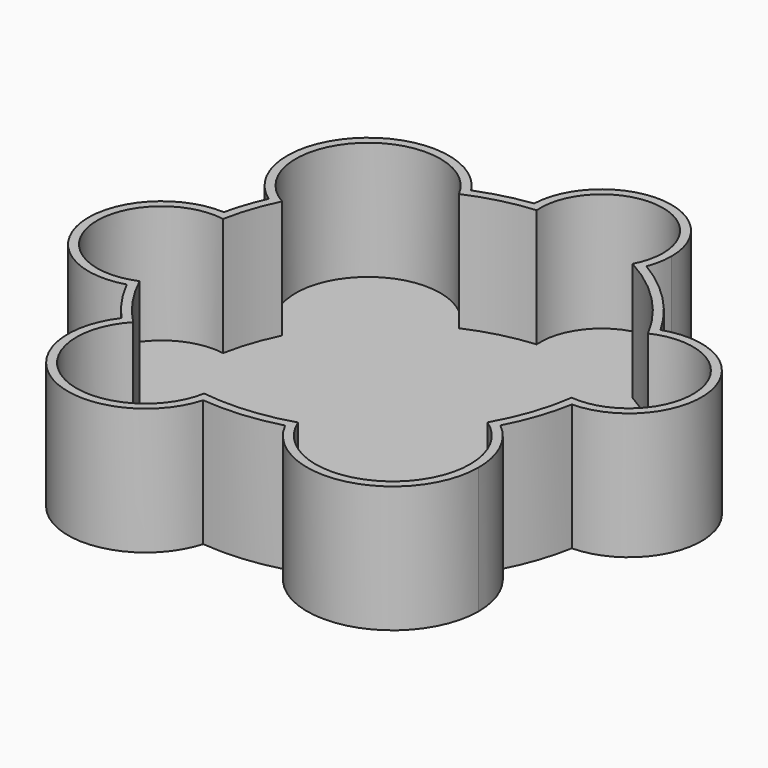
from build123d import *

# Parameters (mm, degrees)
F1_DEPTH = 37.6201
F2_T     = -2.54


with BuildPart() as f1:
    # F0 (on Top) → F1 (new body)
    with BuildSketch(Plane.XY):
        with BuildLine():
            ThreePointArc((16.7091462893, -60.6978161449), (39.4117489765, -49.0931206697), (55.6500673937, -29.4362099047))
            ThreePointArc((55.6500673937, -29.4362099047), (23.4502719471, -29.2107572065), (16.7091462893, -60.6978161449))
        make_face()
        with BuildLine():
            ThreePointArc((62.0042191269, -10.9040022441), (40.3670714522, 7.0042086774), (54.7064706003, 31.1548155016))
            ThreePointArc((54.7064706003, 31.1548155016), (44.935325146, 44.0935030192), (32.183718898, 54.1075659439))
            ThreePointArc((32.183718898, 54.1075659439), (8.6217733932, 41.3273719277), (-7.8647058636, 62.4625236134))
            ThreePointArc((-7.8647058636, 62.4625236134), (-15.7447875498, 60.9550828027), (-23.3691654764, 58.4576988892))
            ThreePointArc((-23.3691654764, 58.4576988892), (-20.5183346703, 52.2285422381), (-19.5415821715, 45.4480125076))
            ThreePointArc((-19.5415821715, 45.4480125076), (-32.511737083, 24.1185300053), (-57.4170529697, 25.820582541))
            ThreePointArc((-57.4170529697, 25.820582541), (-59.6745301999, 20.0591849261), (-61.3555023196, 14.1039990638))
            ThreePointArc((-61.3555023196, 14.1039990638), (-46.7617551504, 7.3703572713), (-40.8076782208, -7.5584188387))
            ThreePointArc((-40.8076782208, -7.5584188387), (-45.0832579318, -20.4896487957), (-56.224579776, -28.3234369999))
            ThreePointArc((-56.224579776, -28.3234369999), (-51.9059842561, -35.62568249), (-46.644810885, -42.2809894868))
            ThreePointArc((-46.644810885, -42.2809894868), (-20.8768390556, -34.3673934602), (-5.1505744217, -56.2602684413))
            ThreePointArc((-5.1505744217, -56.2602684413), (-5.3779967145, -59.4938509677), (-6.0557859623, -62.6637687253))
            ThreePointArc((-6.0557859623, -62.6637687253), (5.4166192363, -62.7222503624), (16.7091462893, -60.6978161449))
            ThreePointArc((16.7091462893, -60.6978161449), (23.4502719471, -29.2107572065), (55.6500673937, -29.4362099047))
            ThreePointArc((55.6500673937, -29.4362099047), (59.5524429756, -20.4187901237), (62.0042191269, -10.9040022441))
        make_face()
        with BuildLine():
            ThreePointArc((62.0042191269, -10.9040022441), (62.7173804314, -5.4727183649), (62.955702319, 0))
            ThreePointArc((62.955702319, 0), (60.8584617474, 16.1142200625), (54.7064706003, 31.1548155016))
            ThreePointArc((54.7064706003, 31.1548155016), (40.3670714522, 7.0042086774), (62.0042191269, -10.9040022441))
        make_face()
        with BuildLine():
            ThreePointArc((-46.644810885, -42.2809894868), (-28.2524804112, -56.2602684413), (-6.0557859623, -62.6637687253))
            ThreePointArc((-6.0557859623, -62.6637687253), (-5.3779967145, -59.4938509677), (-5.1505744217, -56.2602684413))
            ThreePointArc((-5.1505744217, -56.2602684413), (-20.8768390556, -34.3673934602), (-46.644810885, -42.2809894868))
        make_face()
        with BuildLine():
            ThreePointArc((-57.4170529697, 25.820582541), (-43.5648782115, 45.4480125076), (-23.3691654764, 58.4576988892))
            ThreePointArc((-23.3691654764, 58.4576988892), (-60.1888205657, 62.7905409631), (-57.4170529697, 25.820582541))
        make_face()
        with BuildLine():
            ThreePointArc((-40.8076782208, -7.5584188387), (-46.7617551504, 7.3703572713), (-61.3555023196, 14.1039990638))
            ThreePointArc((-61.3555023196, 14.1039990638), (-62.5003260722, -7.5584188387), (-56.224579776, -28.3234369999))
            ThreePointArc((-56.224579776, -28.3234369999), (-45.0832579318, -20.4896487957), (-40.8076782208, -7.5584188387))
        make_face()
        with BuildLine():
            ThreePointArc((-56.224579776, -28.3234369999), (-62.5003260722, -7.5584188387), (-61.3555023196, 14.1039990638))
            ThreePointArc((-61.3555023196, 14.1039990638), (-84.0360649195, -10.1628233985), (-56.224579776, -28.3234369999))
        make_face()
        with BuildLine():
            ThreePointArc((-7.8647058636, 62.4625236134), (12.8570964123, 61.6288530343), (32.183718898, 54.1075659439))
            ThreePointArc((32.183718898, 54.1075659439), (33.2396198234, 57.8025185487), (33.5956618448, 61.6288530343))
            ThreePointArc((33.5956618448, 61.6288530343), (13.2740159603, 82.3632272541), (-7.8647058636, 62.4625236134))
        make_face()
        with BuildLine():
            ThreePointArc((-19.5415821715, 45.4480125076), (-20.5183346703, 52.2285422381), (-23.3691654764, 58.4576988892))
            ThreePointArc((-23.3691654764, 58.4576988892), (-43.5648782115, 45.4480125076), (-57.4170529697, 25.820582541))
            ThreePointArc((-57.4170529697, 25.820582541), (-32.511737083, 24.1185300053), (-19.5415821715, 45.4480125076))
        make_face()
        with BuildLine():
            ThreePointArc((64.9083590619, -49.0931206697), (62.477949346, -38.229073249), (55.6500673937, -29.4362099047))
            ThreePointArc((55.6500673937, -29.4362099047), (39.4117489765, -49.0931206697), (16.7091462893, -60.6978161449))
            ThreePointArc((16.7091462893, -60.6978161449), (45.3799026779, -73.8813894121), (64.9083590619, -49.0931206697))
        make_face()
        with BuildLine():
            ThreePointArc((54.7064706003, 31.1548155016), (60.8584617474, 16.1142200625), (62.955702319, 0))
            ThreePointArc((62.955702319, 0), (62.7173804314, -5.4727183649), (62.0042191269, -10.9040022441))
            ThreePointArc((62.0042191269, -10.9040022441), (77.0537457967, -4.4545389272), (83.2580870135, 10.6976879761))
            ThreePointArc((83.2580870135, 10.6976879761), (74.2366255414, 28.259641643), (54.7064706003, 31.1548155016))
        make_face()
        with BuildLine():
            ThreePointArc((-46.644810885, -42.2809894868), (-38.6198676754, -76.9052518916), (-6.0557859623, -62.6637687253))
            ThreePointArc((-6.0557859623, -62.6637687253), (-28.2524804112, -56.2602684413), (-46.644810885, -42.2809894868))
        make_face()
        with BuildLine():
            ThreePointArc((-7.8647058636, 62.4625236134), (8.6217733932, 41.3273719277), (32.183718898, 54.1075659439))
            ThreePointArc((32.183718898, 54.1075659439), (12.8570964123, 61.6288530343), (-7.8647058636, 62.4625236134))
        make_face()
    extrude(amount=F1_DEPTH)

    # F2
    f2_openings = [f1.faces().sort_by_distance(p)[0] for p in [
        (-1.092041, -0.96071, 37.6201),
    ]]
    offset(amount=F2_T, openings=f2_openings, kind=Kind.INTERSECTION)


solid = f1.part
